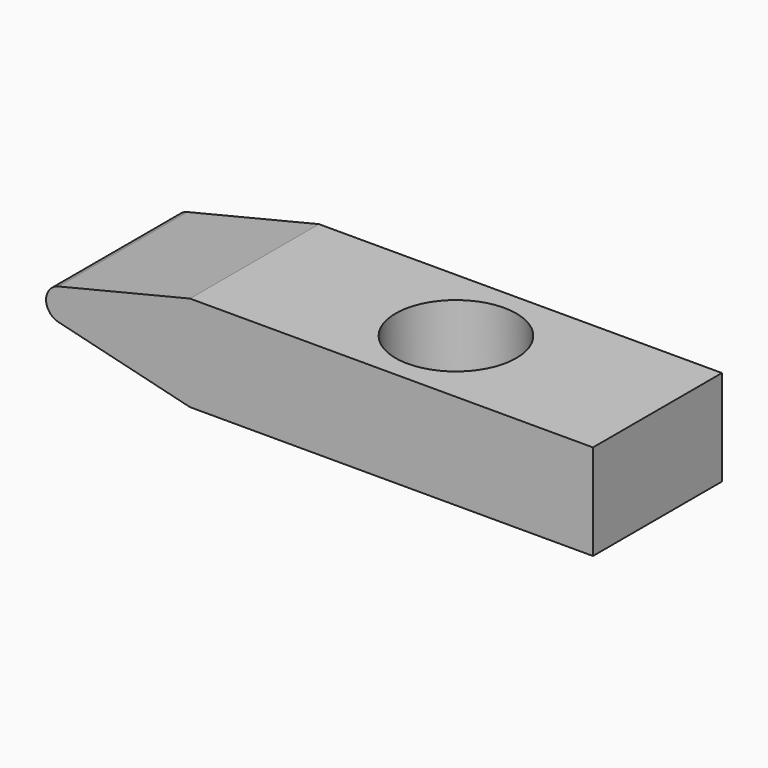
from build123d import *

# Parameters (mm, degrees)
F0_W          = 127
F0_H          = 30.127738
F1_DEPTH      = 25.4
F1_DEPTH_BACK = 25.4
F2_R          = 19.05
F3_DEPTH      = 15.064869
F3_DEPTH_BACK = 15.063869
F4_R          = 5.08


with BuildPart() as f1:
    # F0 (on Front) → F1 (new body, two sides)
    with BuildSketch(Plane.XZ) as f1_sk:
        Rectangle(F0_W, F0_H)
        Polygon((-63.5, -15.063869), (-63.5, 15.063869), (-125.187356, 0), align=None)
    extrude(amount=F1_DEPTH)
    extrude(f1_sk.sketch, amount=-F1_DEPTH_BACK)

    # F2 (on Top) → F3 (cut, two sides)
    with BuildSketch(Plane.XY) as f3_sk:
        Circle(F2_R)
    extrude(amount=F3_DEPTH, mode=Mode.SUBTRACT)
    extrude(f3_sk.sketch, amount=-F3_DEPTH_BACK, mode=Mode.SUBTRACT)

    # F4
    f4_edges = [f1.edges().sort_by_distance(p)[0] for p in [
        (-125.187356, 0, 0),
    ]]
    fillet(f4_edges, radius=F4_R)


solid = f1.part
